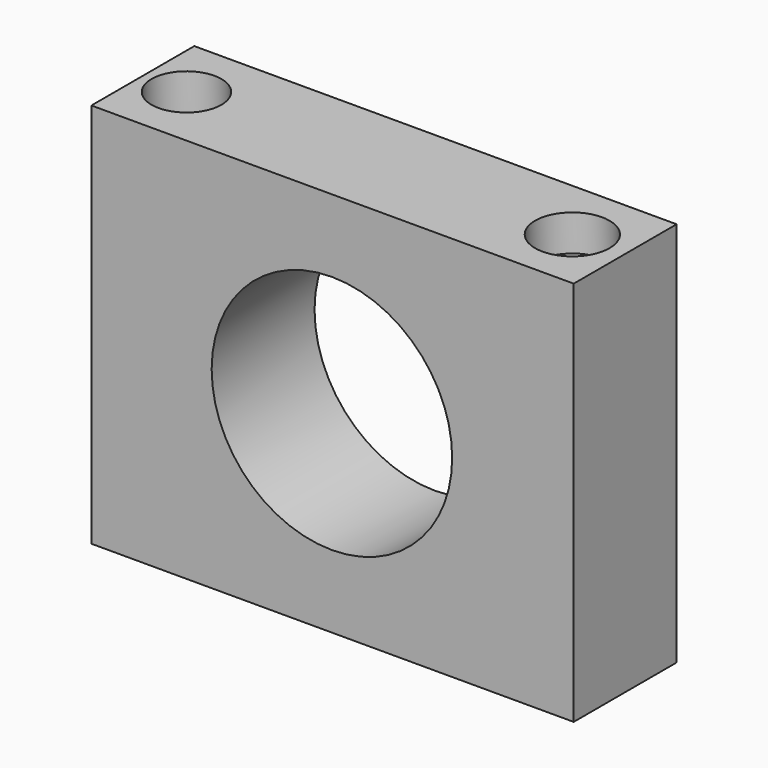
from build123d import *

# Parameters (mm, degrees)
F0_W     = 95.25
F0_H     = 25.4
F1_DEPTH = 76.2
F2_R     = 7.35111
F2_R_2   = 6.900606
F3_DEPTH = 7.1374
F4_R     = 23.749
F5_DEPTH = 35.1103


with BuildPart() as f1:
    # F0 (on Top) → F1 (new body)
    with BuildSketch(Plane.XY):
        with Locations((-1.087826, 2.483681)):
            Rectangle(F0_W, F0_H)
    extrude(amount=F1_DEPTH)

    # F2 (on face) → F3 (cut)
    with BuildSketch(Plane.XY.offset(76.2)):
        with Locations((36.106295, 2.483681)):
            Circle(F2_R)
        with Locations((-40.093705, 2.483681)):
            Circle(F2_R_2)
    extrude(amount=-F3_DEPTH, mode=Mode.SUBTRACT)

    # F4 (on face) → F5 (cut)
    with BuildSketch(Plane.XZ.offset(10.216319)):
        with Locations((-1.214826, 38.1)):
            Circle(F4_R)
    extrude(amount=-F5_DEPTH, mode=Mode.SUBTRACT)


solid = f1.part
